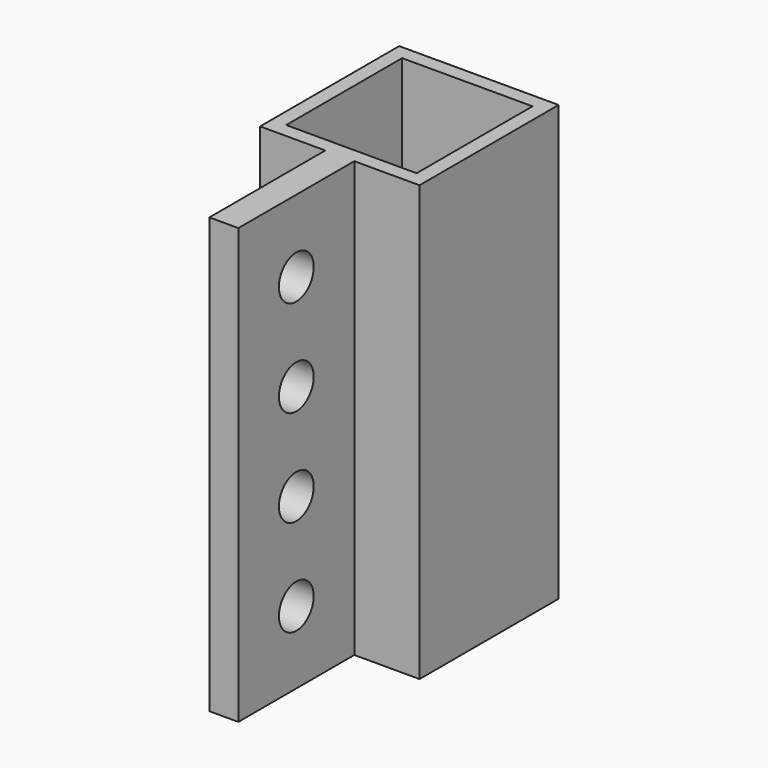
from build123d import *

# Parameters (mm, degrees)
SKETCH_W            = 9
SKETCH_H            = 10
PAD_DEPTH           = 30
SKETCH001_R         = 1.5
POCKET_DEPTH        = 5.501
POCKET_DEPTH_BACK   = 5.501
LINEARPATTERN_COUNT = 4
LINEARPATTERN_PITCH = 6.666667


with BuildPart() as part:
    # Sketch → Pad (new body)
    with BuildSketch(Plane.XY):
        Polygon((-5.5, 6), (-5.5, -6), (-1, -6), (-1, -16), (1, -16), (1, -6), (5.5, -6), (5.5, 6), align=None)
        Rectangle(SKETCH_W, SKETCH_H, mode=Mode.SUBTRACT)
    extrude(amount=PAD_DEPTH)

    # Sketch001 → Pocket (cut, two sides)
    with BuildSketch(Plane.YZ) as pocket_sk:
        with Locations((-11, 5)):
            Circle(SKETCH001_R)
    pocket = extrude(amount=-POCKET_DEPTH, mode=Mode.SUBTRACT) + extrude(pocket_sk.sketch, amount=POCKET_DEPTH_BACK, mode=Mode.SUBTRACT)

    # LinearPattern: Pocket ×4
    with Locations(*[(0, 0, i * LINEARPATTERN_PITCH) for i in range(1, LINEARPATTERN_COUNT)]):
        add(pocket, mode=Mode.SUBTRACT)


solid = part.part
